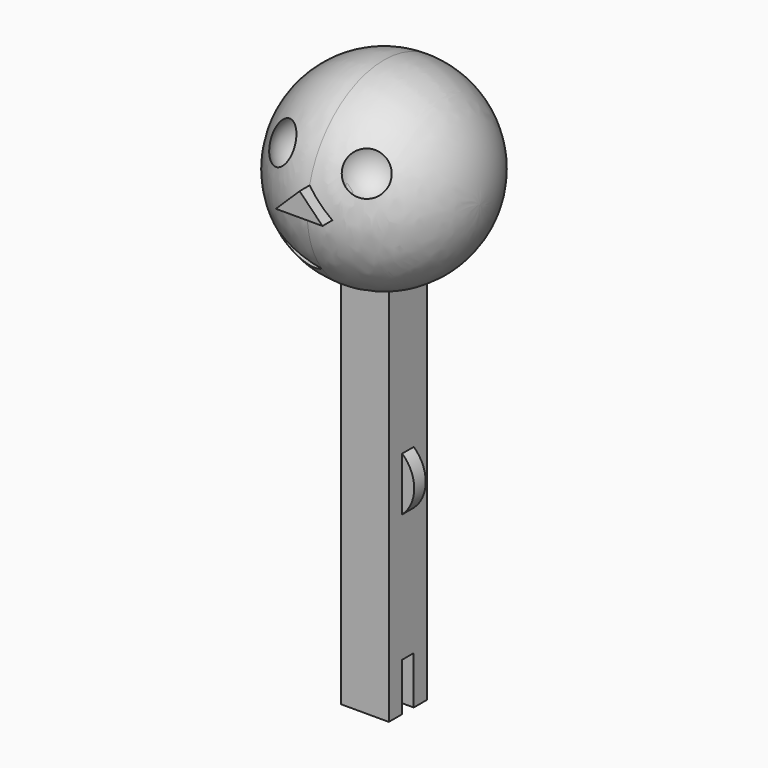
from build123d import *

# Parameters (mm, degrees)
F8_DEPTH  = 12.7
F10_DEPTH = 38.1
F11_W     = 12.7
F11_H     = 127
F12_DEPTH = 6.35
F13_W     = 3.81
F13_H     = 12.7
F14_DEPTH = 12.7
F15_R     = 9.525
F16_DEPTH = 1.905


with BuildPart() as f1:
    # F0 (on Front) → F1 (revolve)
    with BuildSketch(Plane.XZ):
        with BuildLine():
            Line((-25.4, 0), (0, 0))
            Line((0, 0), (25.4, 0))
            ThreePointArc((25.4, 0), (17.960512, 17.960512), (0, 25.4))
            ThreePointArc((0, 25.4), (-17.960512, 17.960512), (-25.4, 0))
        make_face()
    revolve(axis=Axis((-12.7, 0, 0), (-1, 0, 0)))

    # F4 (on plane+point) → F5 (revolve, cut)
    with BuildSketch(Plane.XZ.offset(15.24)):
        with BuildLine():
            Line((1.016, 8.128), (16.256, 8.128))
            ThreePointArc((16.256, 8.128), (8.636, 15.748), (1.016, 8.128))
        make_face()
    revolve(axis=Axis((8.636, -15.24, 8.128), (-1, 0, 0)), mode=Mode.SUBTRACT)

    # F6: F1 across plane


with BuildPart() as f1_1:
    add(f1.part)
    add(f1.part.mirror(Plane.YZ), mode=Mode.INTERSECT)

    # F7 (on plane+point) → F8 (join)
    with BuildSketch(Plane.XZ.offset(15.24)):
        Polygon((0, 6.164311), (-6.275294, 0), (6.05529, 0), align=None)
    extrude(amount=F8_DEPTH)

    # F9 (on plane+point) → F10 (cut)
    with BuildSketch(Plane.XZ.offset(15.24)):
        with BuildLine():
            Line((0, -14.921401), (-11.733207, -10.342062))
            ThreePointArc((-11.733207, -10.342062), (-7.012469, -15.567675), (0, -14.921401))
        make_face()
    extrude(amount=F10_DEPTH, mode=Mode.SUBTRACT)

    # F11 (on Right) → F12 (join, symmetric)
    with BuildSketch(Plane.YZ):
        with Locations((0, -60.833758)):
            Rectangle(F11_W, F11_H)
    extrude(amount=F12_DEPTH, both=True)

    # F13 (on face) → F14 (cut, symmetric)
    with BuildSketch(Plane.YZ.offset(6.35)):
        with Locations((0, -117.983758)):
            Rectangle(F13_W, F13_H)
    extrude(amount=F14_DEPTH, both=True, mode=Mode.SUBTRACT)

    # F15 (on Front) → F16 (join, symmetric)
    with BuildSketch(Plane.XZ):
        with Locations((0, -70.652964)):
            Circle(F15_R)
    extrude(amount=F16_DEPTH, both=True)


solid = f1_1.part
